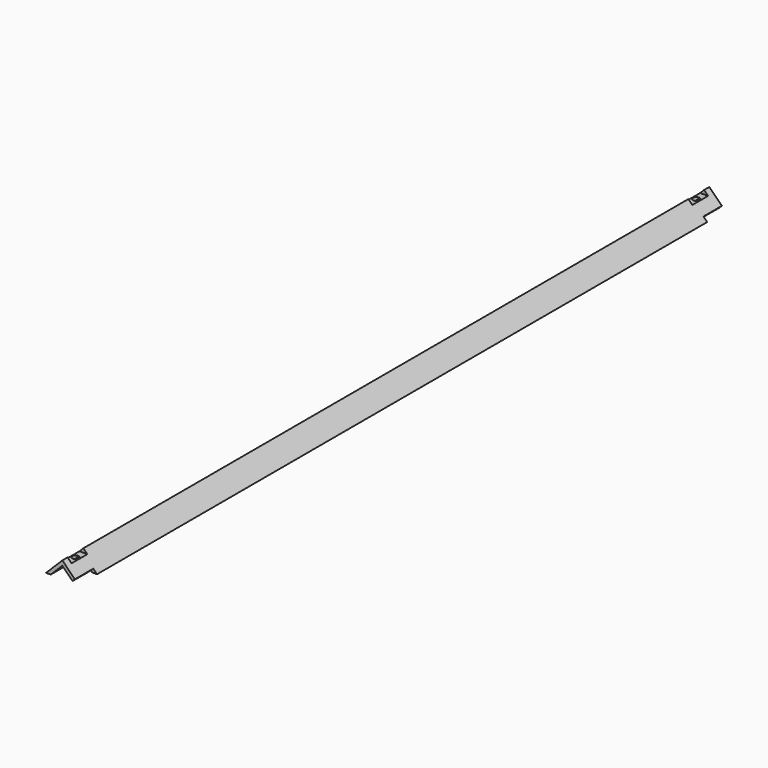
from build123d import *

# Parameters (mm, degrees)
F1_DEPTH = 615
F3_W     = 30
F3_H     = 6
F4_DEPTH = 54.7497373415
F6_D     = 10
F7_W     = 35
F7_H     = 8
F8_DEPTH = 25


with BuildPart() as f1:
    # F0 (on Front) → F1 (new body, symmetric)
    with BuildSketch(Plane.XZ):
        Polygon((17.6776695297, 0), (24.7487373415, 0), (0, 24.7487373415), (-24.7487373415, 0), (-17.6776695297, 0), (0, 17.6776695297), align=None)
    extrude(amount=F1_DEPTH, both=True)

    # F3 (on offset) → F4 (cut, through all)
    with BuildSketch(Plane.YZ.offset(30)):
        with Locations((590, 21.7487373415)):
            Rectangle(F3_W, F3_H)
        with Locations((-590, 21.7487373415)):
            Rectangle(F3_W, F3_H)
    extrude(amount=-F4_DEPTH, mode=Mode.SUBTRACT)

    # F6 (through all)
    with Locations(Plane.XY.offset(18.7487373415)):
        with Locations((0, -590), (0, 590)):
            Hole(F6_D / 2)

    # F7 (on face) → F8 (cut)
    with BuildSketch(Plane(origin=(12.3743686708, 0, 12.3743686708), x_dir=(0, 1, 0), z_dir=(0.7071067812, 0, 0.7071067812))):
        with Locations((-597.5, -13.5)):
            Rectangle(F7_W, F7_H)
        with Locations((597.5, -13.5)):
            Rectangle(F7_W, F7_H)
    extrude(amount=-F8_DEPTH, mode=Mode.SUBTRACT)


solid = f1.part
